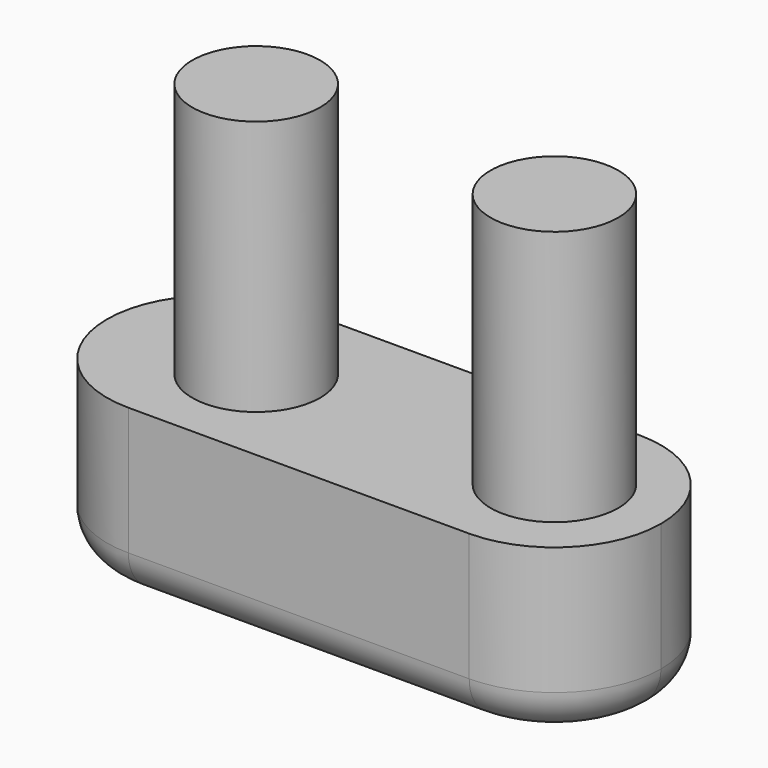
from build123d import *

# Parameters (mm, degrees)
F0_R     = 1.5
F1_DEPTH = 10
F2_DEPTH = 4
F3_R     = 1


with BuildPart() as f1:
    # F0 (on Top) → F1 (new body)
    with BuildSketch(Plane.XY):
        with Locations((4, 0)):
            Circle(F0_R)
    extrude(amount=F1_DEPTH)



with BuildPart() as f1b:
    # F0 (on Top) → F1, piece 2 (new body)
    with BuildSketch(Plane.XY):
        with Locations((-3, 0)):
            Circle(F0_R)
    extrude(amount=F1_DEPTH)


with BuildPart() as f1_1:
    add(f1.part)

    add(f1b.part)  # F2 merges F1b
    # F0 (on Top) → F2 (join)
    with BuildSketch(Plane.XY):
        with BuildLine():
            Line((4, 2.5), (-4, 2.5))
            ThreePointArc((-4, 2.5), (-5.767766953, 1.767766953), (-6.5, 0))
            ThreePointArc((-6.5, 0), (-5.767766953, -1.767766953), (-4, -2.5))
            Line((-4, -2.5), (4, -2.5))
            ThreePointArc((4, -2.5), (5.767766953, -1.767766953), (6.5, 0))
            ThreePointArc((6.5, 0), (5.767766953, 1.767766953), (4, 2.5))
        make_face()
        with Locations((-3, 0)):
            Circle(F0_R, mode=Mode.SUBTRACT)
        with Locations((4, 0)):
            Circle(F0_R, mode=Mode.SUBTRACT)
    extrude(amount=F2_DEPTH)

    # F3
    f3_edges = [f1_1.edges().sort_by_distance(p)[0] for p in [
        (0, 2.5, 0),
        (-6.5, 0, 0),
    ]]
    fillet(f3_edges, radius=F3_R)


solid = f1_1.part
